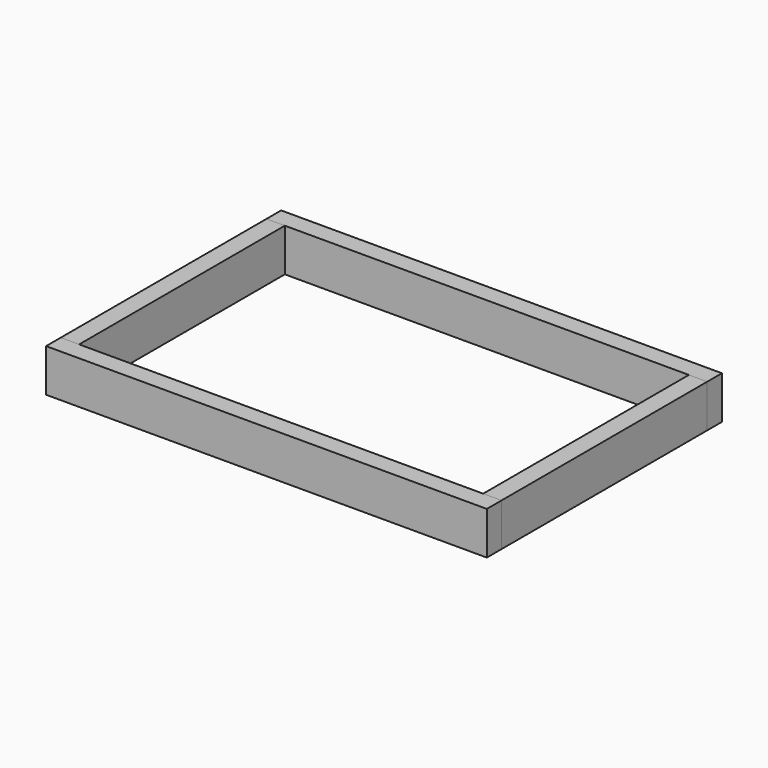
from build123d import *

# Parameters (mm, degrees)
F0_W     = 914.4
F0_H     = 38.1
F1_DEPTH = 88.9
F2_W     = 38.109361
F2_H     = 88.9
F3_DEPTH = 533.4


with BuildPart() as f1:
    # F0 (on Top) → F1 (new body)
    with BuildSketch(Plane.XY):
        with Locations((128.369103, -81.224136)):
            Rectangle(F0_W, F0_H)
    extrude(amount=F1_DEPTH)


with BuildPart() as f3:
    # F2 (on face) → F3 (new body)
    with BuildSketch(Plane(origin=(0, -62.174136, 0), x_dir=(-1, 0, 0), z_dir=(0, 1, 0))):
        with Locations((309.776217, 44.45)):
            Rectangle(F2_W, F2_H)
    extrude(amount=F3_DEPTH)


with BuildPart() as f4_1:
    # F4: copy of F3
    add(f3.part.moved(Location((876.3, 0, 0))))


with BuildPart() as f5_1:
    # F5: copy of F1
    add(f1.part.moved(Location((0, 571.5, 0))))


solid = Compound([f1.part, f3.part, f4_1.part, f5_1.part])
